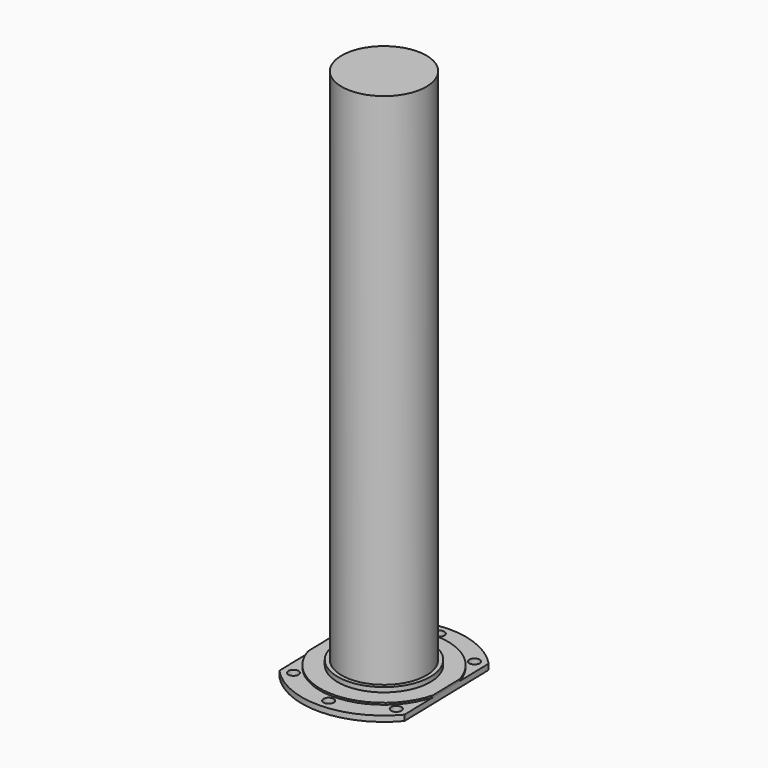
from build123d import *

# Parameters (mm, degrees)
F0_R     = 5.0292
F1_DEPTH = 5.5118
F2_R     = 45.3771
F3_DEPTH = 6.35
F5_DEPTH = 1.778
F6_R     = 41.5036
F7_DEPTH = 508


with BuildPart() as f1:
    # F0 (on Top) → F1 (new body)
    with BuildSketch(Plane.XY):
        with BuildLine():
            Line((61.47253, -51.707207), (58.887924, 54.632588))
            ThreePointArc((58.887924, 54.632588), (-1.951797, 80.303784), (-61.47253, 51.707207))
            Line((-61.47253, 51.707207), (-58.887924, -54.632588))
            ThreePointArc((-58.887924, -54.632588), (1.951797, -80.303784), (61.47253, -51.707207))
        make_face()
        with Locations((-48.229271, -50.632113)):
            Circle(F0_R, mode=Mode.SUBTRACT)
        with Locations((1.699066, -69.905555)):
            Circle(F0_R, mode=Mode.SUBTRACT)
        with Locations((50.632113, -48.229271)):
            Circle(F0_R, mode=Mode.SUBTRACT)
        with Locations((-50.632113, 48.229271)):
            Circle(F0_R, mode=Mode.SUBTRACT)
        with Locations((-1.699066, 69.905555)):
            Circle(F0_R, mode=Mode.SUBTRACT)
        with Locations((48.229271, 50.632113)):
            Circle(F0_R, mode=Mode.SUBTRACT)
    extrude(amount=F1_DEPTH)

    # F2 (on face) → F3 (join)
    with BuildSketch(Plane.XY.offset(5.5118)):
        Circle(F2_R)
    extrude(amount=F3_DEPTH)

    # F4 (on face) → F5 (join)
    with BuildSketch(Plane.XY.offset(5.5118)):
        with BuildLine():
            Line((-60.592857, 15.514361), (-59.767597, -18.439742))
            ThreePointArc((-59.767597, -18.439742), (1.519779, -62.529033), (60.592857, -15.514361))
            Line((60.592857, -15.514361), (59.767597, 18.439742))
            ThreePointArc((59.767597, 18.439742), (-1.519779, 62.529033), (-60.592857, 15.514361))
        make_face()
    extrude(amount=F5_DEPTH)

    # F6 (on face) → F7 (join)
    with BuildSketch(Plane.XY.offset(11.8618)):
        Circle(F6_R)
    extrude(amount=F7_DEPTH)


solid = f1.part
